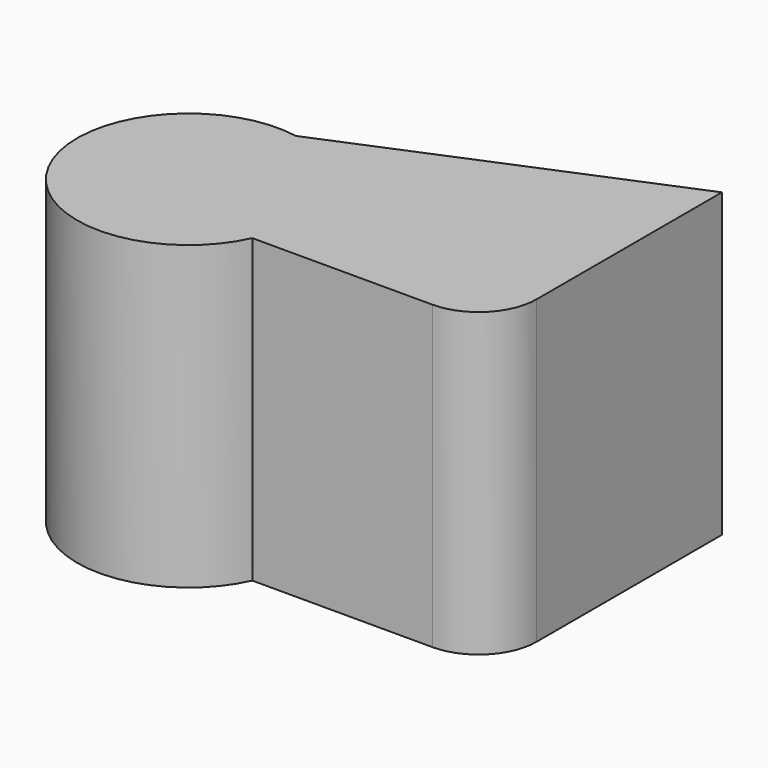
from build123d import *

# Parameters (mm, degrees)
F1_DEPTH = 26.416


with BuildPart() as f1:
    # F0 (on Top) → F1 (new body)
    with BuildSketch(Plane.XY):
        with BuildLine():
            Line((6.821536, 33.623249), (-21.157203, 21.939822))
            ThreePointArc((-21.157203, 21.939822), (-31.534784, 7.828284), (-14.023457, 8.256185))
            Line((-14.023457, 8.256185), (1.741536, 8.256185))
            ThreePointArc((1.741536, 8.256185), (5.333638, 9.744082), (6.821536, 13.336185))
            Line((6.821536, 13.336185), (6.821536, 21.939822))
            Line((6.821536, 21.939822), (6.821536, 33.623249))
        make_face()
    extrude(amount=F1_DEPTH)


solid = f1.part
